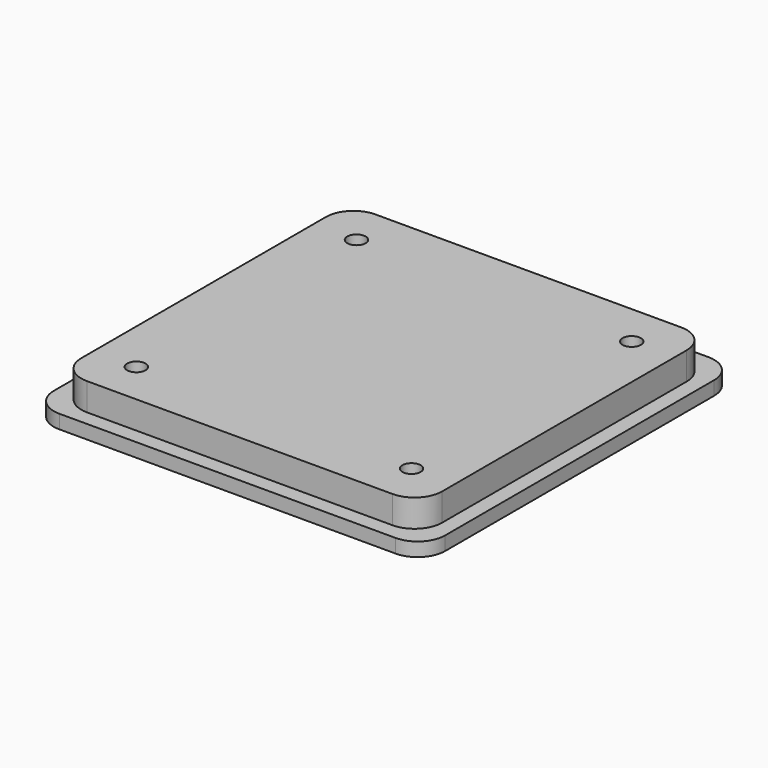
from build123d import *

# Parameters (mm, degrees)
SKETCH_W        = 64
SKETCH_H        = 64
PAD_DEPTH       = 2.25
SKETCH001_W     = 59
SKETCH001_H     = 59
PAD001_DEPTH    = 4.5
SKETCH002_R     = 1.5
POCKET_DEPTH    = 6.751
SKETCH003_R     = 4.25
POCKET001_DEPTH = 3
FILLET_R        = 4.5


with BuildPart() as part:
    # Sketch → Pad (new body)
    with BuildSketch(Plane.XY):
        Rectangle(SKETCH_W, SKETCH_H)
    extrude(amount=PAD_DEPTH)

    # Sketch001 (on Face6 of Pad) → Pad001 (join)
    with BuildSketch(Plane.XY.offset(2.25)):
        Rectangle(SKETCH001_W, SKETCH001_H)
    extrude(amount=PAD001_DEPTH)

    # Sketch002 → Pocket (cut, through all)
    with BuildSketch(Plane.XY):
        with Locations((-22.5, 22.5)):
            Circle(SKETCH002_R)
        with Locations((22.5, 22.5)):
            Circle(SKETCH002_R)
        with Locations((22.5, -22.5)):
            Circle(SKETCH002_R)
        with Locations((-22.5, -22.5)):
            Circle(SKETCH002_R)
    extrude(amount=POCKET_DEPTH, mode=Mode.SUBTRACT)

    # Sketch003 → Pocket001 (cut)
    with BuildSketch(Plane.XY):
        with Locations((-22.5, 22.5)):
            Circle(SKETCH003_R)
        with Locations((22.5, 22.5)):
            Circle(SKETCH003_R)
        with Locations((22.5, -22.5)):
            Circle(SKETCH003_R)
        with Locations((-22.5, -22.5)):
            Circle(SKETCH003_R)
    extrude(amount=POCKET001_DEPTH, mode=Mode.SUBTRACT)

    # Fillet
    fillet_edges = [part.edges().sort_by_distance(p)[0] for p in [
        (29.5, -29.5, 4.5),
        (32, -32, 1.125),
        (29.5, 29.5, 4.5),
        (32, 32, 1.125),
        (-29.5, -29.5, 4.5),
        (-32, -32, 1.125),
        (-29.5, 29.5, 4.5),
        (-32, 32, 1.125),
    ]]
    fillet(fillet_edges, radius=FILLET_R)


solid = part.part
